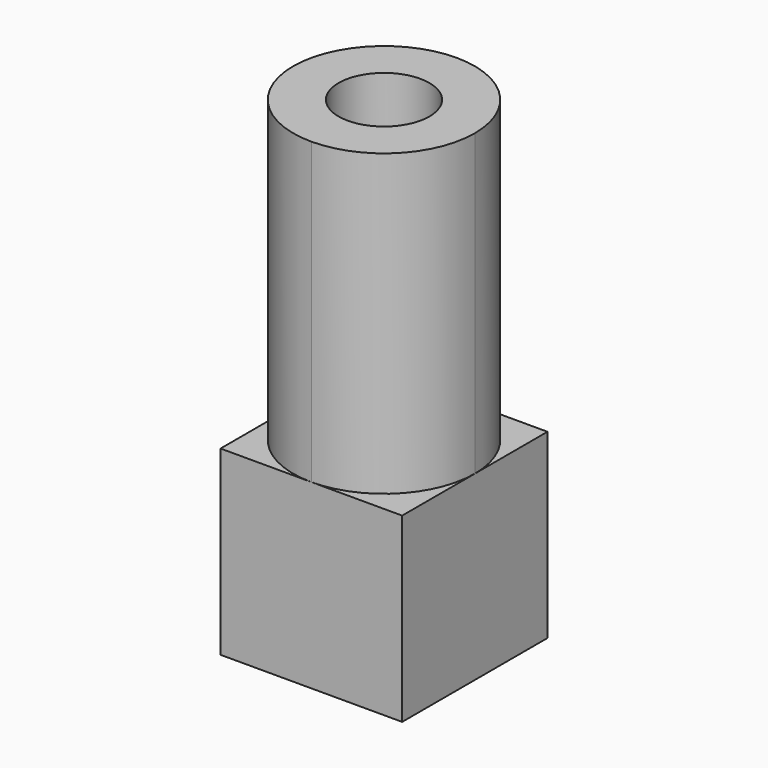
from build123d import *

# Parameters (mm, degrees)
F0_W     = 50.8
F0_H     = 50.8
F1_DEPTH = 50.8
F3_DEPTH = 83.82
F4_R     = 12.7
F5_DEPTH = 143.764


with BuildPart() as f1:
    # F0 (on Top) → F1 (new body)
    with BuildSketch(Plane.XY):
        with Locations((-25.4, 25.4)):
            Rectangle(F0_W, F0_H)
    extrude(amount=-F1_DEPTH)

    # F2 (on face) → F3 (join)
    with BuildSketch(Plane.XY):
        with BuildLine():
            ThreePointArc((-25.4, 0), (-7.439488, 7.439488), (0, 25.4))
            ThreePointArc((0, 25.4), (-7.439488, 43.360512), (-25.4, 50.8))
            ThreePointArc((-25.4, 50.8), (-43.360512, 43.360512), (-50.8, 25.4))
            ThreePointArc((-50.8, 25.4), (-43.360512, 7.439488), (-25.4, 0))
        make_face()
    extrude(amount=F3_DEPTH)

    # F4 (on face) → F5 (cut)
    with BuildSketch(Plane.XY.offset(83.82)):
        with Locations((-25.4, 25.4)):
            Circle(F4_R)
    extrude(amount=-F5_DEPTH, mode=Mode.SUBTRACT)


solid = f1.part
